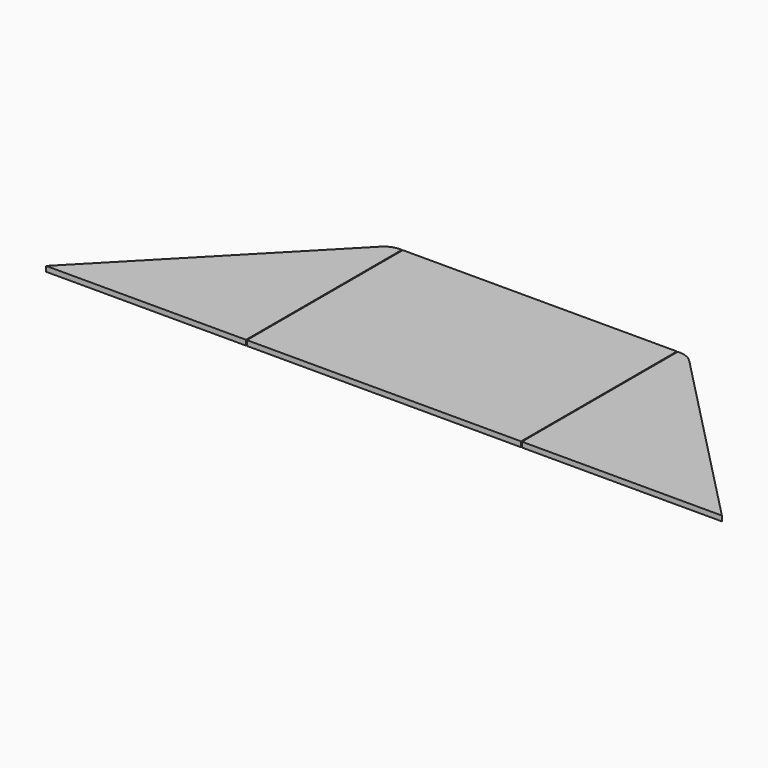
from build123d import *

# Parameters (mm, degrees)
F1_W     = 1009.65
F1_H     = 717.55
F2_DEPTH = 19.05


with BuildPart() as f2:
    # F1 (on Top) → F2 (new body)
    with BuildSketch(Plane.XY):
        with BuildLine():
            Line((-165.730246, -11.299409), (-841.794007, -705.801273))
            Line((-841.794007, -705.801273), (-105.194007, -705.801273))
            Line((-105.194007, -705.801273), (-105.194007, 11.748727))
            Line((-105.194007, 11.748727), (-111.128786, 11.748727))
            ThreePointArc((-111.128786, 11.748727), (-140.762112, 5.750622), (-165.730246, -11.299409))
        make_face()
        with Locations((402.805993, -347.026273)):
            Rectangle(F1_W, F1_H)
        with BuildLine():
            Line((916.740772, 11.748727), (910.805993, 11.748727))
            Line((910.805993, 11.748727), (910.805993, -705.801273))
            Line((910.805993, -705.801273), (1647.405993, -705.801273))
            Line((1647.405993, -705.801273), (971.342232, -11.299409))
            ThreePointArc((971.342232, -11.299409), (946.374098, 5.750622), (916.740772, 11.748727))
        make_face()
    extrude(amount=F2_DEPTH)


solid = f2.part
